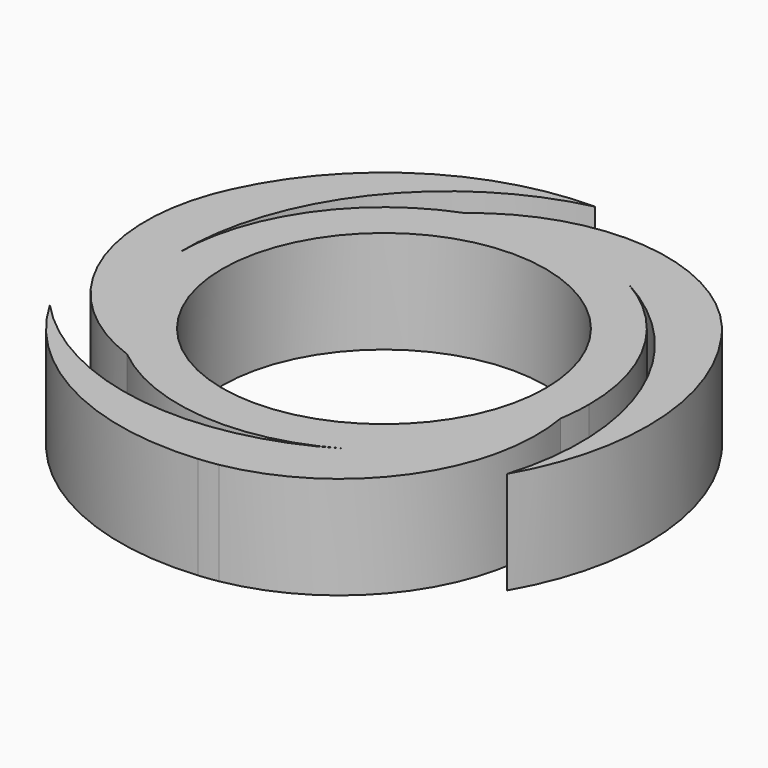
from build123d import *

# Parameters (mm, degrees)
F0_R     = 11.025
F1_DEPTH = 7


with BuildPart() as f1:
    # F0 (on Top) → F1 (new body)
    with BuildSketch(Plane.XY):
        with BuildLine():
            ThreePointArc((13.820918, -2.232092), (13.955158, -1.119632), (14, 0))
            ThreePointArc((14, 0), (12.124356, 7), (7, 12.124356))
            ThreePointArc((7, 12.124356), (1.119632, 13.955158), (-4.977411, 13.085312))
            ThreePointArc((-4.977411, 13.085312), (-11.525705, 7.947209), (-14, 0))
            ThreePointArc((-14, 0), (-12.645337, -6.007949), (-8.843507, -10.85322))
            ThreePointArc((-8.843507, -10.85322), (-1.119632, -13.955158), (7, -12.124356))
            ThreePointArc((7, -12.124356), (11.525705, -7.947209), (13.820918, -2.232092))
        make_face()
        Circle(F0_R, mode=Mode.SUBTRACT)
        with BuildLine():
            ThreePointArc((-8.843507, -10.85322), (-12.645337, -6.007949), (-14, 0))
            ThreePointArc((-14, 0), (-10.202934, 11.491171), (0, 18))
            ThreePointArc((0, 18), (-9.712436, 15.154821), (-16.35447, 7.518732))
            ThreePointArc((-16.35447, 7.518732), (-16.614557, 6.925063), (-16.853102, 6.322416))
            ThreePointArc((-16.853102, 6.322416), (-16.393457, -3.91863), (-8.843507, -10.85322))
        make_face()
        with BuildLine():
            ThreePointArc((-4.977411, 13.085312), (1.119632, 13.955158), (7, 12.124356))
            ThreePointArc((7, 12.124356), (15.053113, 3.090415), (15.588457, -9))
            ThreePointArc((15.588457, -9), (17.980678, 0.833806), (14.688647, 10.40402))
            ThreePointArc((14.688647, 10.40402), (14.304559, 10.926097), (13.901924, 11.434007))
            ThreePointArc((13.901924, 11.434007), (4.803096, 16.156465), (-4.977411, 13.085312))
        make_face()
        with BuildLine():
            ThreePointArc((2.951178, -17.756423), (11.590361, -12.237835), (13.820918, -2.232092))
            ThreePointArc((13.820918, -2.232092), (11.525705, -7.947209), (7, -12.124356))
            ThreePointArc((7, -12.124356), (-4.850179, -14.581586), (-15.588457, -9))
            ThreePointArc((-15.588457, -9), (-8.268242, -15.988627), (1.665822, -17.922752))
            ThreePointArc((1.665822, -17.922752), (2.309998, -17.85116), (2.951178, -17.756423))
        make_face()
    extrude(amount=F1_DEPTH)


solid = f1.part
